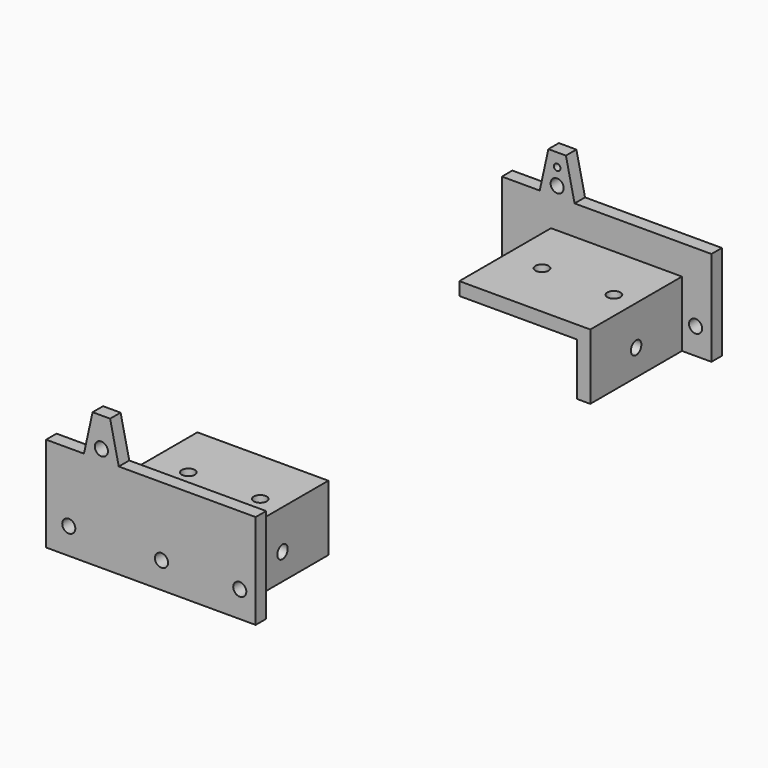
from build123d import *

# Parameters (mm, degrees)
F2_DEPTH   = 4
F4_DEPTH   = 35
F7_D       = 4
F7_ON_F6_D = 4
F7_ON_F5_D = 4
F11_D      = 2


with BuildPart() as f2:
    # F1 (on Front) → F2 (new body)
    with BuildSketch(Plane.XZ):
        Polygon((-40, 0), (0, 0), (0, -20), (9, -20), (9, 9), (-32.8034572303, 9), (-43.4373132885, 9), (-55, 9), (-55, 0), (-55, -20), (-4, -20), (-4, -4), (-40, -4), align=None)
        Polygon((0, -20), (0, 0), (-40, 0), (-40, -4), (-4, -4), (-4, -20), align=None)
        Polygon((-43.4373132885, 9), (-32.8034572303, 9), (-35.4425162077, 21), (-40.7982543111, 21), align=None)
    extrude(amount=-F2_DEPTH)

    # F1 (on Front) → F4 (join)
    with BuildSketch(Plane.XZ):
        Polygon((0, -20), (0, 0), (-40, 0), (-40, -4), (-4, -4), (-4, -20), align=None)
    extrude(amount=F4_DEPTH)

    # F7 (through all)
    with Locations(Plane.XZ):
        with Locations((-48.0690838993, -12), (-19.7549181283, -12), (4.1542227156, -12), (-38.1203852594, 12)):
            Hole(F7_D / 2)

    # F7 on F6 (through all)
    with Locations(Plane(origin=(-4, 0, 0), x_dir=(0, -1, 0), z_dir=(-1, 0, 0))):
        with Locations((17.5, -12)):
            Hole(F7_ON_F6_D / 2)

    # F7 on F5 (through all)
    with Locations(Plane(origin=(0, 0, -4), x_dir=(1, 0, 0), z_dir=(0, 0, -1))):
        with Locations((-6.7932120338, 17.5), (-28.7511822581, 17.5)):
            Hole(F7_ON_F5_D / 2)


with BuildPart() as f10_1:
    # F10: instance of F2
    add(f2.part.mirror(Plane(origin=(-14.8571428571, -85, -4.8571428571), x_dir=(1, 0, 0), z_dir=(0, -1, 0))))


with BuildPart() as f2_1:
    add(f2.part)

    # F11 (through all)
    with Locations(Plane.XZ):
        with Locations((-38.1203852594, 17)):
            Hole(F11_D / 2)


solid = Compound([f10_1.part, f2_1.part])
